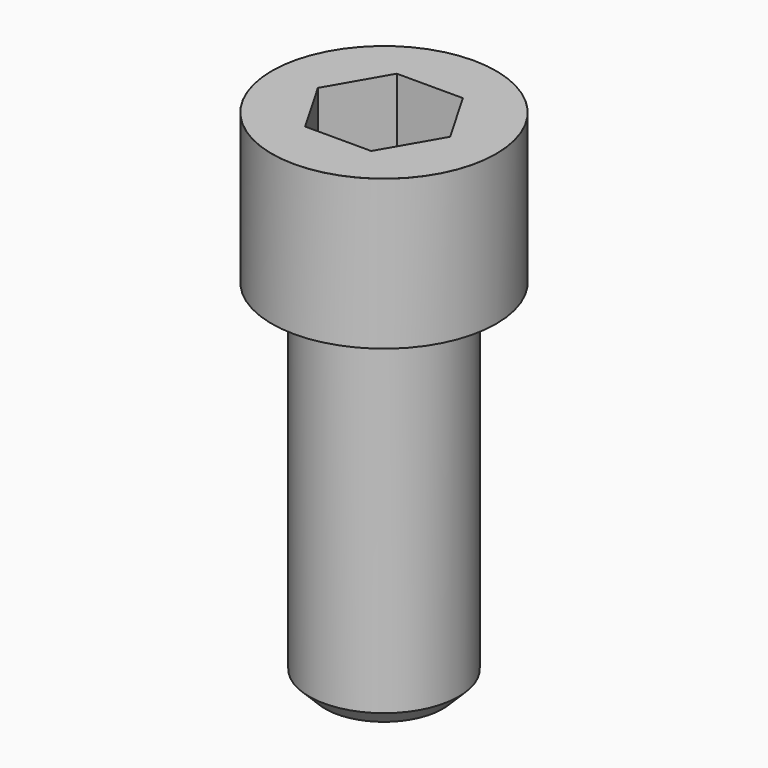
from build123d import *

# Parameters (mm, degrees)
POCKET_DEPTH = 32.15


with BuildPart() as part:
    # Sketch → Revolve (revolve)
    with BuildSketch(Plane.YZ):
        with BuildLine():
            Line((20.999, 0), (31.5, 0))
            Line((31.5, 0), (31.5, 41.97229))
            ThreePointArc((31.5, 41.97229), (31.491884, 41.991884), (31.47229, 42))
            Line((31.47229, 42), (0, 42))
            Line((0, -100), (0, 42))
            Line((16.5, -100), (0, -100))
            Line((21, -95.5), (16.5, -100))
            Line((21, -4), (21, -95.5))
            Line((20.999, 0), (21, -4))
        make_face()
    revolve(axis=Axis((0, 0, 0), (0, 0, 1)))

    # Sketch001 → Pocket (cut)
    with BuildSketch(Plane.XY.offset(42)):
        Polygon((18.561811, 0), (9.280906, 16.075), (-9.280906, 16.075), (-18.561811, 0), (-9.280906, -16.075), (9.280906, -16.075), align=None)
    extrude(amount=-POCKET_DEPTH, mode=Mode.SUBTRACT)


solid = part.part
